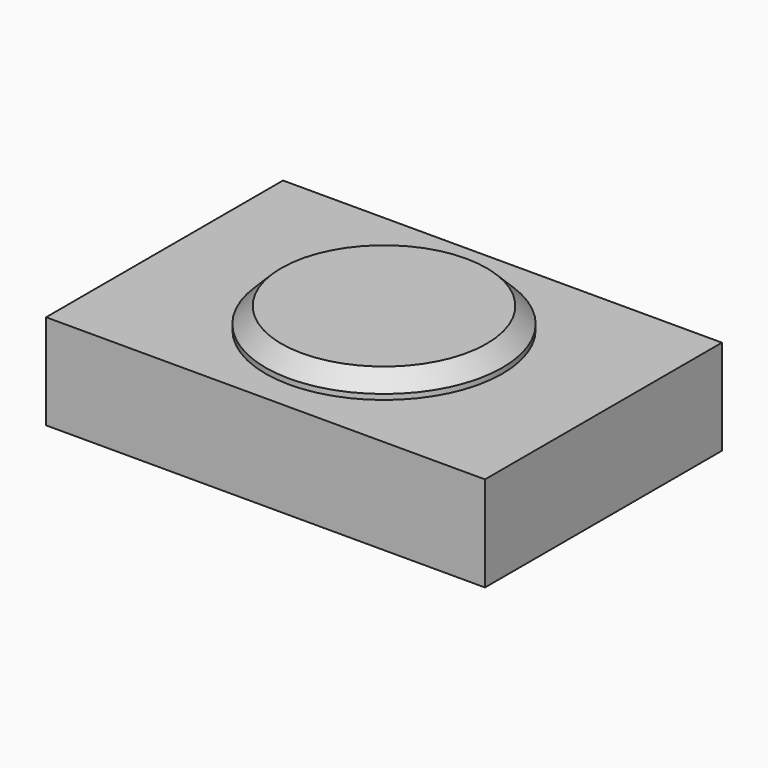
from build123d import *

# Parameters (mm, degrees)
F0_W     = 527.05
F0_H     = 355.6
F1_DEPTH = 114.3


with BuildPart() as f1:
    # F0 (on Top) → F1 (new body)
    with BuildSketch(Plane.XY):
        Rectangle(F0_W, F0_H)
    extrude(amount=F1_DEPTH)

    # F2 (on Right) → F3 (revolve)
    with BuildSketch(Plane.YZ):
        Polygon((-142.24, 120.65), (-142.24, 114.3), (0, 114.3), (0, 139.7), (-123.19, 139.7), align=None)
    revolve(axis=Axis((0, 0, 127), (0, 0, -1)))


solid = f1.part
